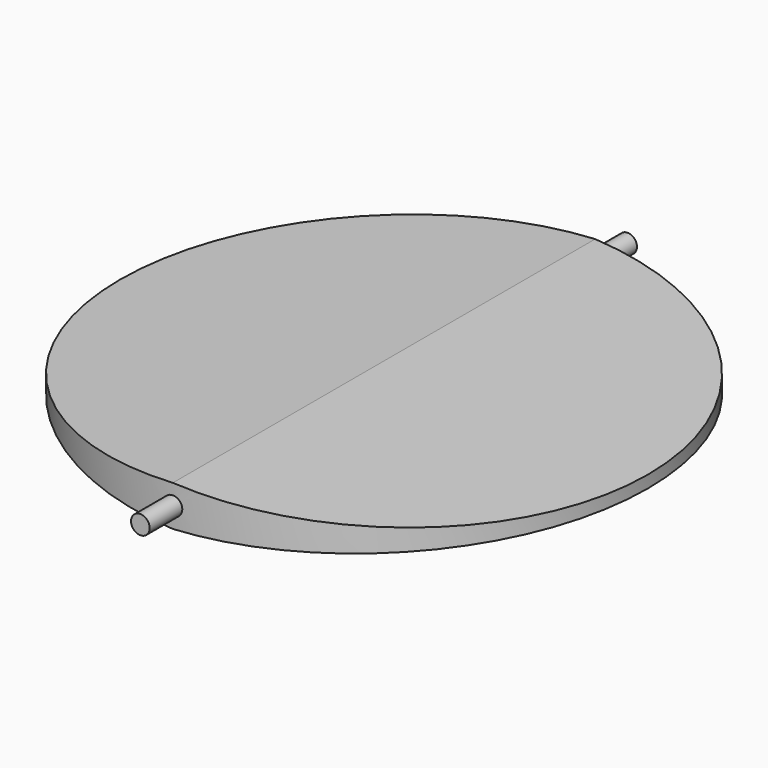
from build123d import *

# Parameters (mm, degrees)
F1_DEPTH = 32.5
F2_W     = 70
F2_H     = 70
F2_R     = 32.5
F3_DEPTH = 5
F5_R     = 1.15
F6_DEPTH = 37.5


with BuildPart() as f1:
    # F0 (on Front) → F1 (new body, symmetric)
    with BuildSketch(Plane.XZ):
        Polygon((0, 2.5), (-32.5, 0.75), (-32.5, -0.75), (0, -2.5), (32.5, -0.75), (32.5, 0.75), align=None)
    extrude(amount=F1_DEPTH, both=True)


with BuildPart() as f3:
    # F2 (on Top) → F3 (new body, symmetric)
    with BuildSketch(Plane.XY):
        Rectangle(F2_W, F2_H)
        Circle(F2_R, mode=Mode.SUBTRACT)
    extrude(amount=F3_DEPTH, both=True)


with BuildPart() as f1_1:
    add(f1.part)

    # F4: cut F3
    add(f3.part, mode=Mode.SUBTRACT)

    # F5 (on Front) → F6 (join, symmetric)
    with BuildSketch(Plane.XZ):
        Circle(F5_R)
    extrude(amount=F6_DEPTH, both=True)


solid = f1_1.part
